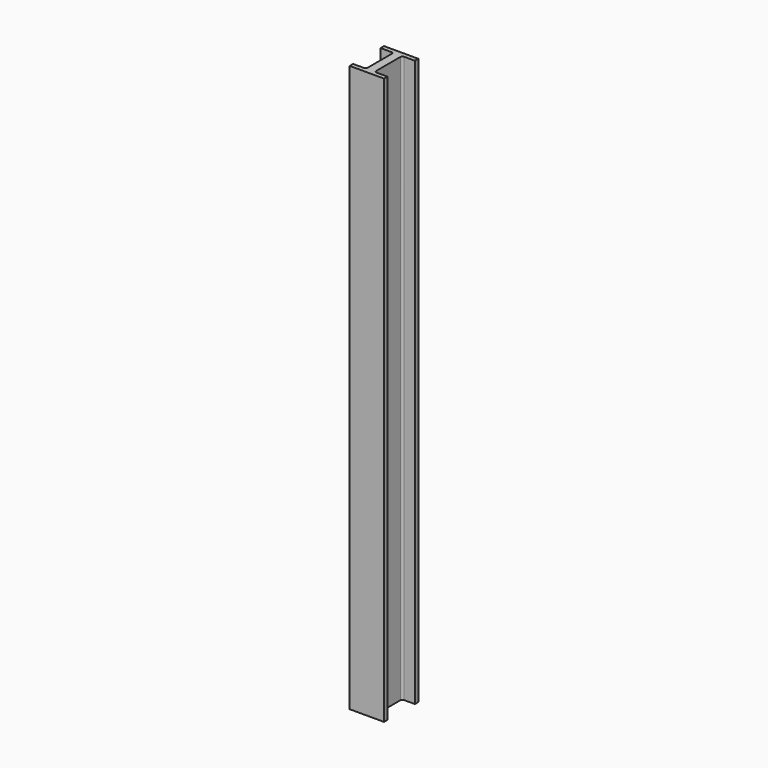
from build123d import *

# Parameters (mm, degrees)
F0_W     = 25.4
F0_H     = 12.7
F0_W_2   = 38.1
F0_H_2   = 101.6
F1_DEPTH = 1676.4
F2_R     = 6.35


with BuildPart() as f1:
    # F0 (on Top) → F1 (new body)
    with BuildSketch(Plane.XY):
        with Locations((0, -57.15)):
            Rectangle(F0_W, F0_H)
        with Locations((31.75, -57.15)):
            Rectangle(F0_W_2, F0_H)
        with Locations((-31.75, -57.15)):
            Rectangle(F0_W_2, F0_H)
        Rectangle(F0_W, F0_H_2)
        with Locations((31.75, 57.15)):
            Rectangle(F0_W_2, F0_H)
        with Locations((0, 57.15)):
            Rectangle(F0_W, F0_H)
        with Locations((-31.75, 57.15)):
            Rectangle(F0_W_2, F0_H)
    extrude(amount=F1_DEPTH)

    # F2
    f2_edges = [f1.edges().sort_by_distance(p)[0] for p in [
        (-12.7, -50.8, 838.2),
        (12.7, -50.8, 838.2),
        (-12.7, 50.8, 838.2),
        (12.7, 50.8, 838.2),
    ]]
    fillet(f2_edges, radius=F2_R)


solid = f1.part
